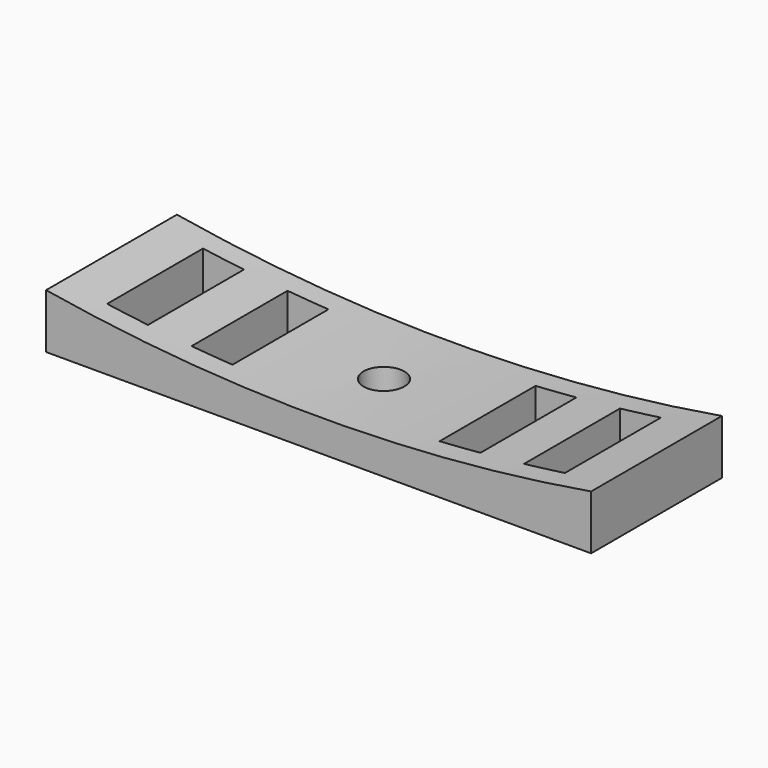
from build123d import *

# Parameters (mm, degrees)
F1_DEPTH = 6
F2_R     = 0.75
F3_DEPTH = 25
F4_W     = 1.5
F4_H     = 4.4
F5_DEPTH = 25


with BuildPart() as f1:
    # F0 (on Front) → F1 (new body)
    with BuildSketch(Plane.XZ):
        with BuildLine():
            Line((0, 2), (0, 0))
            Line((0, 0), (20, 0))
            Line((20, 0), (20, 2))
            ThreePointArc((20, 2), (10, 1.160798), (0, 2))
        make_face()
    extrude(amount=-F1_DEPTH)

    # F2 (on face) → F3 (cut)
    with BuildSketch(Plane(origin=(0, 0, 0), x_dir=(1, 0, 0), z_dir=(0, 0, -1))):
        with Locations((10, -3)):
            Circle(F2_R)
    extrude(amount=-F3_DEPTH, mode=Mode.SUBTRACT)

    # F4 (on face) → F5 (cut)
    with BuildSketch(Plane(origin=(0, 0, 0), x_dir=(1, 0, 0), z_dir=(0, 0, -1))):
        with Locations((5.45, -3)):
            Rectangle(F4_W, F4_H)
        with Locations((2.35, -3)):
            Rectangle(F4_W, F4_H)
        with Locations((14.55, -3)):
            Rectangle(F4_W, F4_H)
        with Locations((17.65, -3)):
            Rectangle(F4_W, F4_H)
    extrude(amount=-F5_DEPTH, mode=Mode.SUBTRACT)


solid = f1.part
